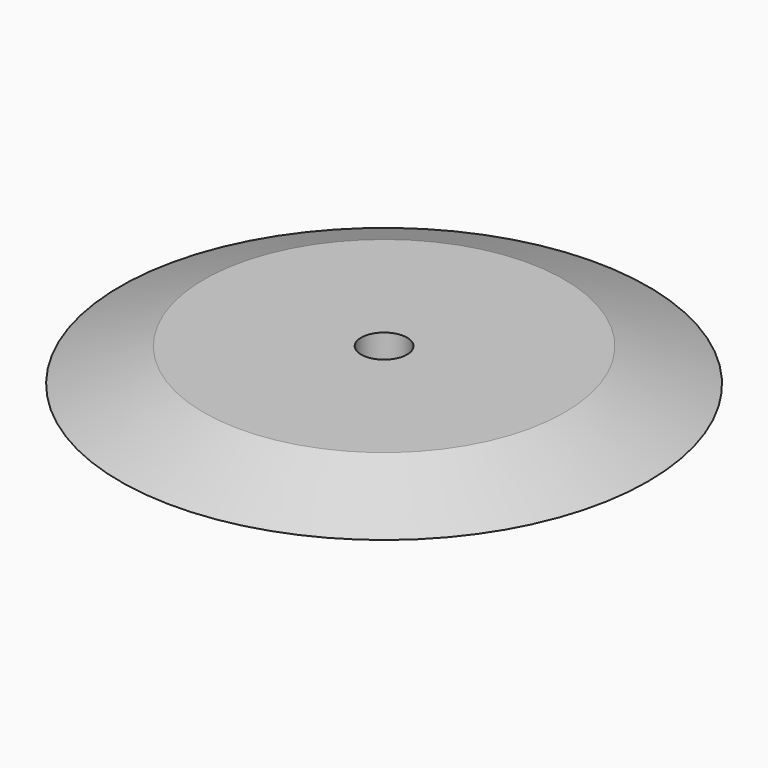
from build123d import *

# Parameters (mm, degrees)
F0_W     = 25.4
F0_H     = 9.398
F2_R     = 3.2385
F3_DEPTH = 46.99


with BuildPart() as f1:
    # F0 (on Front) → F1 (revolve)
    with BuildSketch(Plane.XZ):
        with Locations((53.905027, 16.134668)):
            Rectangle(F0_W, F0_H)
        Polygon((78.40373, 16.134668), (66.605027, 20.833668), (66.605027, 11.435668), align=None)
    revolve(axis=Axis((41.205027, 0, 16.134668), (0, 0, -1)))

    # F2 (on face) → F3 (cut)
    with BuildSketch(Plane.XY.offset(20.833668)):
        with Locations((41.205027, 0)):
            Circle(F2_R)
    extrude(amount=-F3_DEPTH, mode=Mode.SUBTRACT)


solid = f1.part
